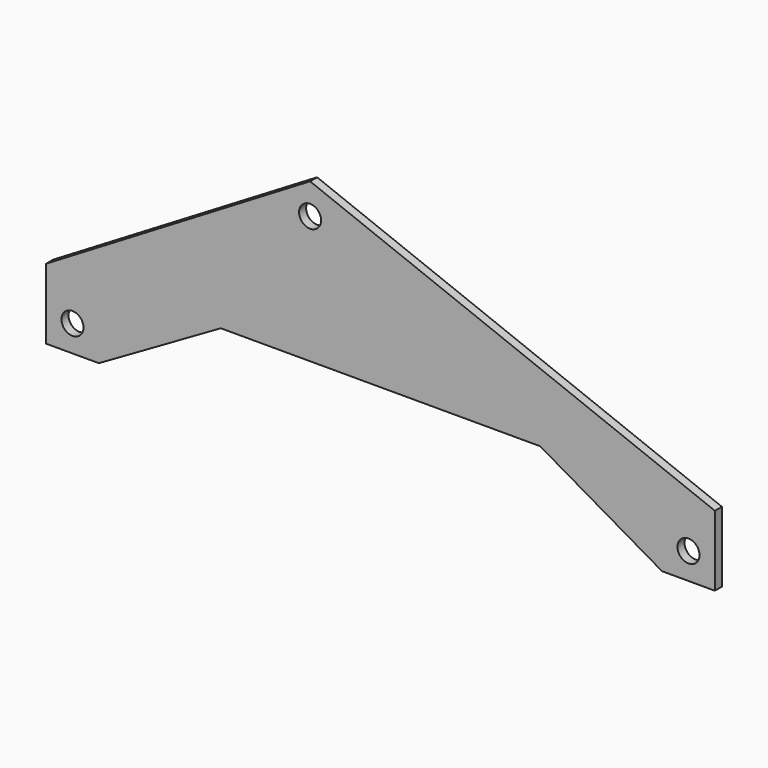
from build123d import *

# Parameters (mm, degrees)
F1_DEPTH = 25.4
F2_R     = 31.75
F3_DEPTH = 50.8


with BuildPart() as f1:
    # F0 (on Front) → F1 (new body)
    with BuildSketch(Plane.XZ):
        Polygon((0, 457.2), (-762, 0), (-762, -203.2), (-609.6, -203.2), (-257.647276, 0), (664.047276, 0), (1016, -203.2), (1168.4, -203.2), (1168.4, 0), align=None)
    extrude(amount=F1_DEPTH)

    # F2 (on face) → F3 (cut)
    with BuildSketch(Plane.XZ.offset(25.4)):
        with Locations((0, 368.3)):
            Circle(F2_R)
        with Locations((-685.8, -127)):
            Circle(F2_R)
        with Locations((1092.2, -127)):
            Circle(F2_R)
    extrude(amount=-F3_DEPTH, mode=Mode.SUBTRACT)


solid = f1.part
